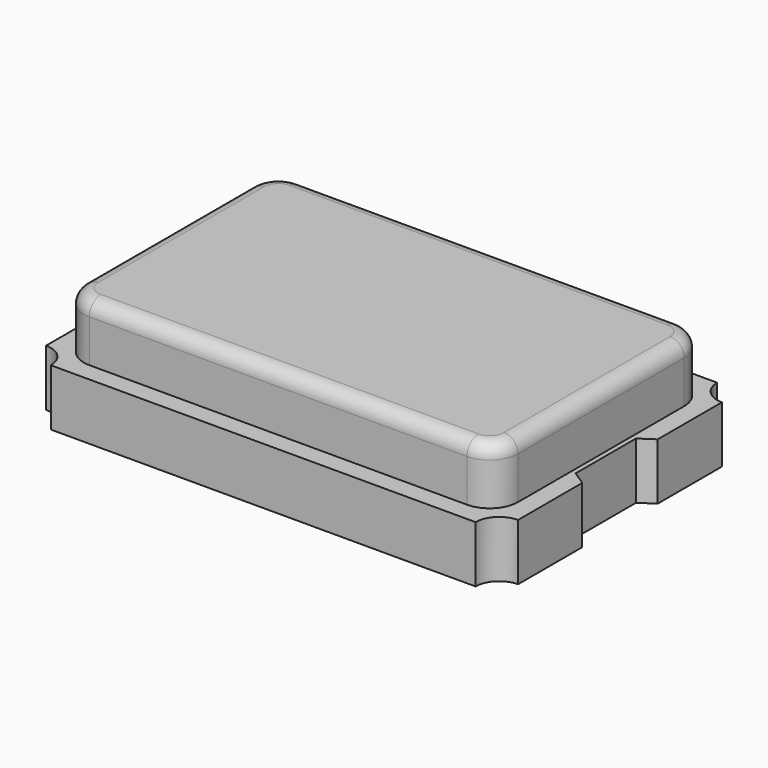
from build123d import *

# Parameters (mm, degrees)
F1_DEPTH = 0.6
F3_DEPTH = 0.6
F6_R     = 0.15


with BuildPart() as f1:
    # F0 (on Top) → F1 (new body)
    with BuildSketch(Plane.XY):
        with BuildLine():
            Line((0, 1.6), (0, 0))
            Line((0, 0), (2.35, 0))
            Line((2.35, 0), (2.35, 0.398652))
            Line((2.35, 0.398652), (2.5, 0.5))
            Line((2.5, 0.5), (2.5, 1.35))
            ThreePointArc((2.5, 1.35), (2.323223, 1.423223), (2.25, 1.6))
            Line((2.25, 1.6), (0, 1.6))
        make_face()
    extrude(amount=F1_DEPTH)

    # F2 (on face) → F3 (join)
    with BuildSketch(Plane.XY.offset(0.6)):
        with BuildLine():
            Line((0, 1.4), (0, 0))
            Line((0, 0), (2.3, 0))
            Line((2.3, 0), (2.3, 1.1))
            ThreePointArc((2.3, 1.1), (2.212132, 1.312132), (2, 1.4))
            Line((2, 1.4), (0, 1.4))
        make_face()
    extrude(amount=F3_DEPTH)

    # F4: F1 across face


with BuildPart() as f1_1:
    add(f1.part)
    add(f1.part.mirror(Plane(origin=(0, 0.753333, 0.58), x_dir=(0, -1, 0), z_dir=(-1, 0, 0))))

    # F5: F1 across face


with BuildPart() as f1_2:
    add(f1_1.part)
    add(f1_1.part.mirror(Plane(origin=(0, 0, 0.596774), x_dir=(1, 0, 0), z_dir=(0, -1, 0))))

    # F6
    f6_edges = [f1_2.edges().sort_by_distance(p)[0] for p in [
        (0, 1.4, 1.2),
        (-2.212132, 1.312132, 1.2),
        (-2.3, 0, 1.2),
        (-2.212132, -1.312132, 1.2),
        (0, -1.4, 1.2),
        (2.212132, -1.312132, 1.2),
        (2.3, 0, 1.2),
        (2.212132, 1.312132, 1.2),
    ]]
    fillet(f6_edges, radius=F6_R)


solid = f1_2.part
